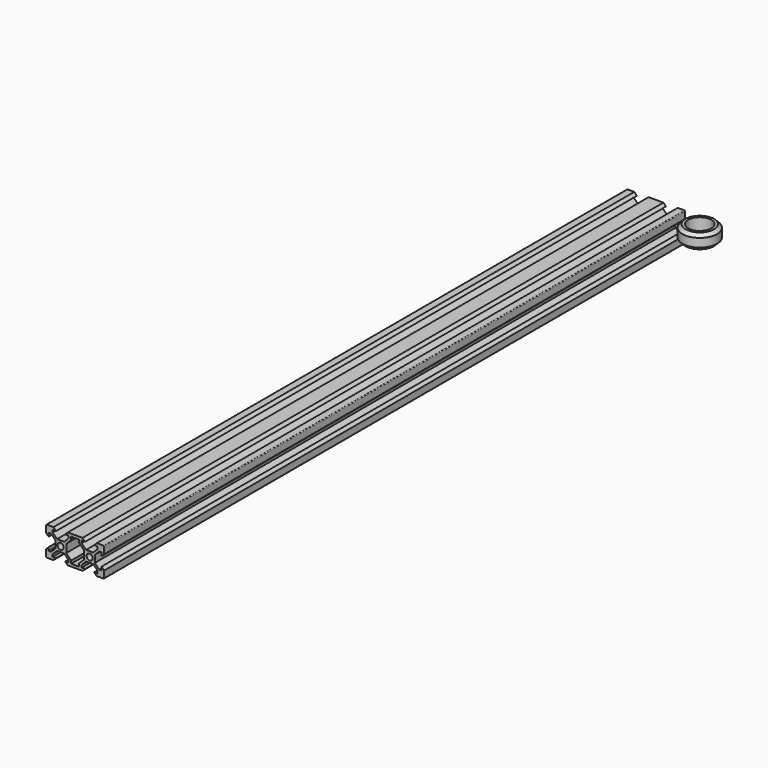
from build123d import *

# Parameters (mm, degrees)
F0_R     = 2.1
F1_DEPTH = 500


with BuildPart() as f1:
    # F0 (on Front) → F1 (new body)
    with BuildSketch(Plane.XZ):
        with BuildLine():
            Line((2.7, -6.24), (2.7, -8.2))
            Line((2.7, -8.2), (0, -8.2))
            Line((0, -8.2), (0, -10))
            Line((0, -10), (5.075, -10))
            Line((5.075, -10), (6.875, -8.2))
            Line((6.875, -8.2), (4.50132, -8.2))
            Line((4.50132, -8.2), (4.50132, -6.56))
            Line((4.50132, -6.56), (7.530778, -3.530543))
            Line((7.530778, -3.530543), (10, -3.530543))
            Line((10, -3.530543), (12.469222, -3.530543))
            Line((12.469222, -3.530543), (15.5, -6.56132))
            Line((15.5, -6.56132), (15.5, -8.2))
            Line((15.5, -8.2), (13.125, -8.2))
            Line((13.125, -8.2), (14.925, -10))
            Line((14.925, -10), (19.5, -10))
            ThreePointArc((19.5, -10), (19.853553, -9.853553), (20, -9.5))
            Line((20, -9.5), (20, -4.925))
            Line((20, -4.925), (18.2, -3.125))
            Line((18.2, -3.125), (18.2, -5.5))
            Line((18.2, -5.5), (16.56132, -5.5))
            Line((16.56132, -5.5), (13.530543, -2.469222))
            Line((13.530543, -2.469222), (13.530543, 0))
            Line((13.530543, 0), (13.530543, 2.469222))
            Line((13.530543, 2.469222), (16.56132, 5.5))
            Line((16.56132, 5.5), (18.2, 5.5))
            Line((18.2, 5.5), (18.2, 3.125))
            Line((18.2, 3.125), (20, 4.925))
            Line((20, 4.925), (20, 9.5))
            ThreePointArc((20, 9.5), (19.853553, 9.853553), (19.5, 10))
            Line((19.5, 10), (14.925, 10))
            Line((14.925, 10), (13.125, 8.2))
            Line((13.125, 8.2), (15.5, 8.2))
            Line((15.5, 8.2), (15.5, 6.56132))
            Line((15.5, 6.56132), (12.469222, 3.530543))
            Line((12.469222, 3.530543), (10, 3.530543))
            Line((10, 3.530543), (7.530778, 3.530543))
            Line((7.530778, 3.530543), (4.50132, 6.56))
            Line((4.50132, 6.56), (4.50132, 8.2))
            Line((4.50132, 8.2), (6.875, 8.2))
            Line((6.875, 8.2), (5.075, 10))
            Line((5.075, 10), (0, 10))
            Line((0, 10), (0, 8.2))
            Line((0, 8.2), (2.7, 8.2))
            Line((2.7, 8.2), (2.7, 6.24))
            Line((2.7, 6.24), (6.1, 2.84))
            Line((6.1, 2.84), (6.1, -2.84))
            Line((6.1, -2.84), (2.7, -6.24))
        make_face()
        with Locations((10, 0)):
            Circle(F0_R, mode=Mode.SUBTRACT)
        with BuildLine():
            Line((0, -10), (0, -8.2))
            Line((0, -8.2), (-2.7, -8.2))
            Line((-2.7, -8.2), (-2.7, -6.24))
            Line((-2.7, -6.24), (-6.1, -2.84))
            Line((-6.1, -2.84), (-6.1, 2.84))
            Line((-6.1, 2.84), (-2.7, 6.24))
            Line((-2.7, 6.24), (-2.7, 8.2))
            Line((-2.7, 8.2), (0, 8.2))
            Line((0, 8.2), (0, 10))
            Line((0, 10), (-5.075, 10))
            Line((-5.075, 10), (-6.875, 8.2))
            Line((-6.875, 8.2), (-4.50132, 8.2))
            Line((-4.50132, 8.2), (-4.50132, 6.56))
            Line((-4.50132, 6.56), (-7.530778, 3.530543))
            Line((-7.530778, 3.530543), (-10, 3.530543))
            Line((-10, 3.530543), (-12.469222, 3.530543))
            Line((-12.469222, 3.530543), (-15.5, 6.56132))
            Line((-15.5, 6.56132), (-15.5, 8.2))
            Line((-15.5, 8.2), (-13.125, 8.2))
            Line((-13.125, 8.2), (-14.925, 10))
            Line((-14.925, 10), (-19.5, 10))
            ThreePointArc((-19.5, 10), (-19.853553, 9.853553), (-20, 9.5))
            Line((-20, 9.5), (-20, 4.925))
            Line((-20, 4.925), (-18.2, 3.125))
            Line((-18.2, 3.125), (-18.2, 5.5))
            Line((-18.2, 5.5), (-16.56132, 5.5))
            Line((-16.56132, 5.5), (-13.530543, 2.469222))
            Line((-13.530543, 2.469222), (-13.530543, 0))
            Line((-13.530543, 0), (-13.530543, -2.469222))
            Line((-13.530543, -2.469222), (-16.56132, -5.5))
            Line((-16.56132, -5.5), (-18.2, -5.5))
            Line((-18.2, -5.5), (-18.2, -3.125))
            Line((-18.2, -3.125), (-20, -4.925))
            Line((-20, -4.925), (-20, -9.5))
            ThreePointArc((-20, -9.5), (-19.853553, -9.853553), (-19.5, -10))
            Line((-19.5, -10), (-14.925, -10))
            Line((-14.925, -10), (-13.125, -8.2))
            Line((-13.125, -8.2), (-15.5, -8.2))
            Line((-15.5, -8.2), (-15.5, -6.56132))
            Line((-15.5, -6.56132), (-12.469222, -3.530543))
            Line((-12.469222, -3.530543), (-10, -3.530543))
            Line((-10, -3.530543), (-7.530778, -3.530543))
            Line((-7.530778, -3.530543), (-4.50132, -6.56))
            Line((-4.50132, -6.56), (-4.50132, -8.2))
            Line((-4.50132, -8.2), (-6.875, -8.2))
            Line((-6.875, -8.2), (-5.075, -10))
            Line((-5.075, -10), (0, -10))
        make_face()
        with Locations((-10, 0)):
            Circle(F0_R, mode=Mode.SUBTRACT)
    extrude(amount=F1_DEPTH)


with BuildPart() as f3:
    # F2 (on Front) → F3 (revolve)
    with BuildSketch(Plane.XZ):
        Polygon((42.069407, 2.94), (39.894407, 5.115), (38.124407, 5.115), (38.124407, -5.115), (39.894407, -5.115), (42.069407, -2.94), align=None)
    revolve(axis=Axis((30.124407, 0, 0), (0, 0, -1)))


solid = Compound([f1.part, f3.part])
